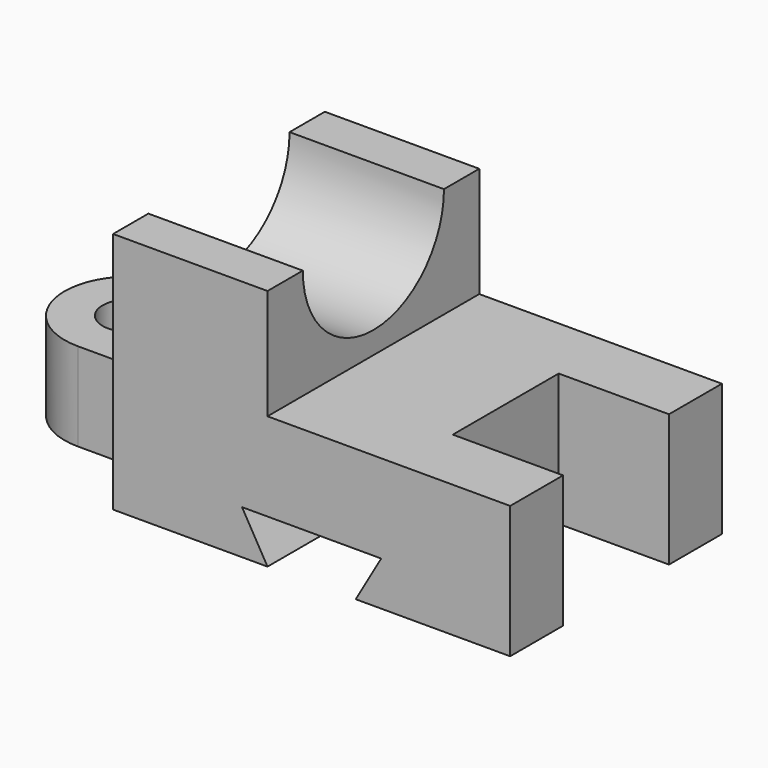
from build123d import *

# Parameters (mm, degrees)
F0_R     = 6.35
F1_DEPTH = 20
F2_DEPTH = 55
F3_DEPTH = 30
F5_DEPTH = 90.001
F7_DEPTH = 60.001


with BuildPart() as f1:
    # F0 (on Top) → F1 (new body)
    with BuildSketch(Plane.XY):
        with BuildLine():
            Line((20, 15), (0, 15))
            ThreePointArc((0, 15), (-15, 0), (0, -15))
            Line((0, -15), (20, -15))
            Line((20, -15), (20, 15))
        make_face()
        Circle(F0_R, mode=Mode.SUBTRACT)
    extrude(amount=F1_DEPTH)

    # F0 (on Top) → F2 (join)
    with BuildSketch(Plane.XY):
        Polygon((20, 30), (20, 15), (20, -15), (20, -30), (55, -30), (55, 30), align=None)
    extrude(amount=F2_DEPTH)

    # F0 (on Top) → F3 (join)
    with BuildSketch(Plane.XY):
        Polygon((110, 30), (55, 30), (55, -30), (110, -30), (110, -15), (85, -15), (85, 15), (110, 15), align=None)
    extrude(amount=F3_DEPTH)

    # F4 (on face) → F5 (cut, through all)
    with BuildSketch(Plane(origin=(20, 0, 0), x_dir=(0, -1, 0), z_dir=(-1, 0, 0))):
        with BuildLine():
            Line((20, 55), (-20, 55))
            ThreePointArc((-20, 55), (0, 35), (20, 55))
        make_face()
    extrude(amount=-F5_DEPTH, mode=Mode.SUBTRACT)

    # F6 (on face) → F7 (cut, through all)
    with BuildSketch(Plane.XZ.offset(30)):
        Polygon((55, 0), (75, 0), (80.773503, 10), (49.226497, 10), align=None)
    extrude(amount=-F7_DEPTH, mode=Mode.SUBTRACT)


solid = f1.part
